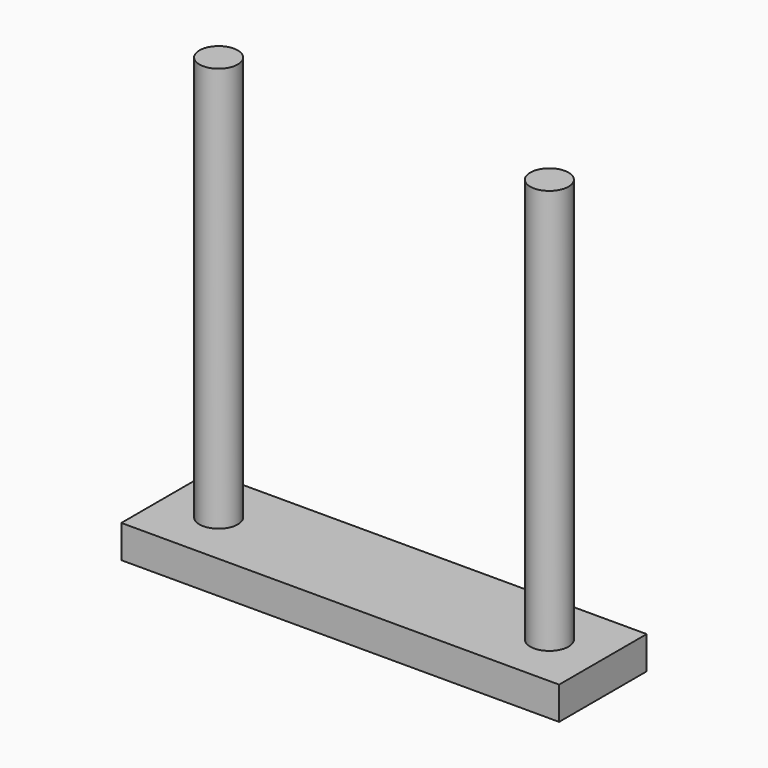
from build123d import *

# Parameters (mm, degrees)
F0_R     = 1.75
F1_DEPTH = 3
F2_DEPTH = 40


with BuildPart() as f1:
    # F0 (on Top) → F1 (new body)
    with BuildSketch(Plane.XY):
        Polygon((3.954127, 14.839267), (-16.045873, 14.839267), (-16.045873, 4.839267), (3.954127, 4.839267), (23.954127, 4.839267), (23.954127, 14.839267), align=None)
        with Locations((-11.157998, 9.839267)):
            Circle(F0_R, mode=Mode.SUBTRACT)
        with Locations((19.066252, 9.839267)):
            Circle(F0_R, mode=Mode.SUBTRACT)
    extrude(amount=F1_DEPTH)

    # F0 (on Top) → F2 (join)
    with BuildSketch(Plane.XY):
        with Locations((19.066252, 9.839267)):
            Circle(F0_R)
        with Locations((-11.157998, 9.839267)):
            Circle(F0_R)
    extrude(amount=F2_DEPTH)


solid = f1.part
